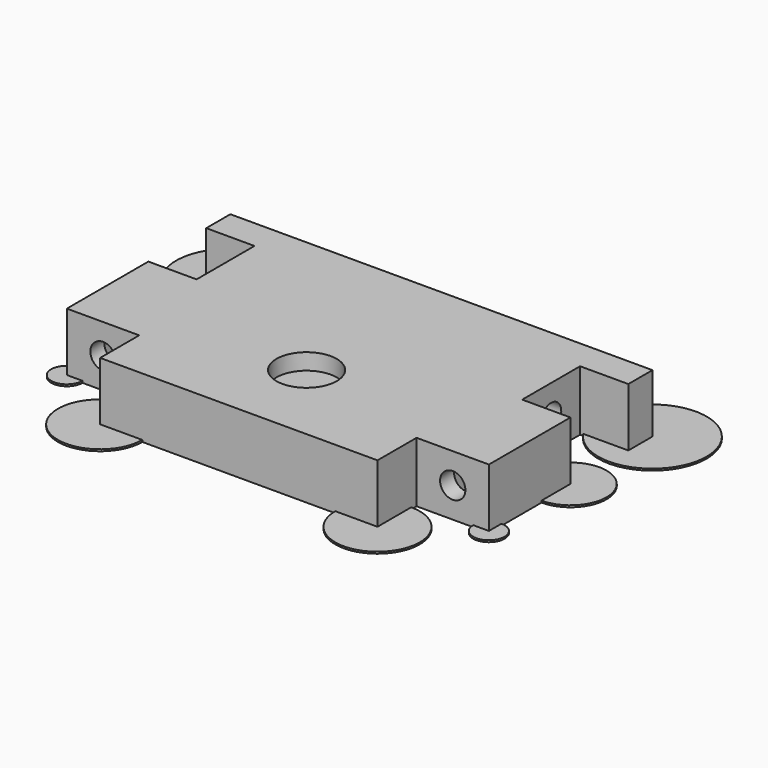
from build123d import *

# Parameters (mm, degrees)
PAD002_DEPTH    = 5.1
PAD003_DEPTH    = 5.1
PAD001_DEPTH    = 5.1
SKETCH_W        = 70
SKETCH_H        = 55
PAD_DEPTH       = 10
SKETCH001_R     = 11.05
POCKET_DEPTH    = 7
SKETCH002_R     = 5
POCKET001_DEPTH = 3.001
SKETCH003_W     = 12
SKETCH003_H     = 8.1
SKETCH003_W_2   = 8
SKETCH003_H_2   = 12
POCKET002_DEPTH = 10.001
SKETCH004_R     = 2.1
POCKET003_DEPTH = 10
SKETCH005_R     = 2.1
POCKET004_DEPTH = 10
SKETCH006_R     = 2.1
POCKET005_DEPTH = 10
SKETCH010_W     = 70
SKETCH010_H     = 13
POCKET006_DEPTH = 10.001
SKETCH011_R     = 9
SKETCH011_R_2   = 6
SKETCH011_R_3   = 7
SKETCH011_R_4   = 2.6
PAD004_DEPTH    = 0.3
SKETCH012_R     = 5
PAD005_DEPTH    = 0.3


with BuildPart() as pad002:
    # Sketch008 → Pad002 (new body)
    with BuildSketch(Plane.YZ.offset(24)):
        Polygon((7.570319, 5), (5.53516, 8.525), (1.46484, 8.525), (-0.570319, 5), (-0.570319, 0), (7.570319, 0), align=None)
    extrude(amount=-PAD002_DEPTH)


with BuildPart() as pad003:
    # Sketch009 → Pad003 (new body)
    with BuildSketch(Plane.XZ.offset(16.5)):
        Polygon((-24.929681, 5), (-26.96484, 8.525), (-31.03516, 8.525), (-33.070319, 5), (-33.070319, 0), (-24.929681, 0), align=None)
        Polygon((33.070319, 5), (31.03516, 8.525), (26.96484, 8.525), (24.929681, 5), (24.929681, 0), (33.070319, 0), align=None)
    extrude(amount=-PAD003_DEPTH)


with BuildPart() as pad001:
    # Sketch007 → Pad001 (new body)
    with BuildSketch(Plane.YZ.offset(-24)):
        Polygon((7.570319, 5), (5.53516, 8.525), (1.46484, 8.525), (-0.570319, 5), (-0.570319, 0), (7.570319, 0), align=None)
    extrude(amount=PAD001_DEPTH)


with BuildPart() as obj1:
    # Sketch → Pad (new body)
    with BuildSketch(Plane.XY):
        Rectangle(SKETCH_W, SKETCH_H)
    extrude(amount=PAD_DEPTH)

    # Sketch001 → Pocket (cut)
    with BuildSketch(Plane(origin=(0, 0, 0), x_dir=(1, 0, 0), z_dir=(0, 0, -1))):
        with Locations((0, 13.45)):
            Circle(SKETCH001_R)
    extrude(amount=-POCKET_DEPTH, mode=Mode.SUBTRACT)

    # Sketch002 → Pocket001 (cut, through all)
    with BuildSketch(Plane(origin=(0, 0, 7), x_dir=(1, 0, 0), z_dir=(0, 0, -1))):
        with Locations((0, 13.45)):
            Circle(SKETCH002_R)
    extrude(amount=-POCKET001_DEPTH, mode=Mode.SUBTRACT)

    # Sketch003 → Pocket002 (cut, through all)
    with BuildSketch(Plane.XY.offset(10)):
        with Locations((-29, -23.45)):
            Rectangle(SKETCH003_W, SKETCH003_H)
        with Locations((29, -23.45)):
            Rectangle(SKETCH003_W, SKETCH003_H)
        with Locations((-31, 3.5)):
            Rectangle(SKETCH003_W_2, SKETCH003_H_2)
        with Locations((31, 3.5)):
            Rectangle(SKETCH003_W_2, SKETCH003_H_2)
    extrude(amount=-POCKET002_DEPTH, mode=Mode.SUBTRACT)

    # Sketch004 → Pocket003 (cut)
    with BuildSketch(Plane(origin=(-27, 0, 0), x_dir=(0, -1, 0), z_dir=(-1, 0, 0))):
        with Locations((-3.5, 5)):
            Circle(SKETCH004_R)
    extrude(amount=-POCKET003_DEPTH, mode=Mode.SUBTRACT)

    # Sketch005 → Pocket004 (cut)
    with BuildSketch(Plane.YZ.offset(27)):
        with Locations((3.5, 5)):
            Circle(SKETCH005_R)
    extrude(amount=-POCKET004_DEPTH, mode=Mode.SUBTRACT)

    # Sketch006 → Pocket005 (cut)
    with BuildSketch(Plane.XZ.offset(19.4)):
        with Locations((-29, 5)):
            Circle(SKETCH006_R)
        with Locations((29, 5)):
            Circle(SKETCH006_R)
    extrude(amount=-POCKET005_DEPTH, mode=Mode.SUBTRACT)

    # Cut: cut Pad001
    add(pad001.part, mode=Mode.SUBTRACT)

    # Cut001: cut Pad003
    add(pad003.part, mode=Mode.SUBTRACT)

    # Cut002: cut Pad002
    add(pad002.part, mode=Mode.SUBTRACT)

    # Sketch010 → Pocket006 (cut, through all)
    with BuildSketch(Plane.XY.offset(10)):
        with Locations((0, 21)):
            Rectangle(SKETCH010_W, SKETCH010_H)
    extrude(amount=-POCKET006_DEPTH, mode=Mode.SUBTRACT)

    # Sketch011 → Pad004 (new body)
    with BuildSketch(Plane(origin=(0, 0, 0), x_dir=(1, 0, 0), z_dir=(0, 0, -1))):
        with Locations((-35, -14.5)):
            Circle(SKETCH011_R)
        with Locations((-35, 2.5)):
            Circle(SKETCH011_R_2)
        with Locations((-23, 27.5)):
            Circle(SKETCH011_R_3)
        with Locations((-35, 19.4)):
            Circle(SKETCH011_R_4)
        with Locations((35, 19.4)):
            Circle(SKETCH011_R_4)
        with Locations((23, 27.5)):
            Circle(SKETCH011_R_3)
        with Locations((35, 2.5)):
            Circle(SKETCH011_R_2)
        with Locations((35, -14.5)):
            Circle(SKETCH011_R)
    extrude(amount=-PAD004_DEPTH)

    # Sketch012 → Pad005 (new body)
    with BuildSketch(Plane(origin=(0, 0, 7), x_dir=(1, 0, 0), z_dir=(0, 0, -1))):
        with Locations((0, 13.45)):
            Circle(SKETCH012_R)
    extrude(amount=-PAD005_DEPTH)


solid = obj1.part
